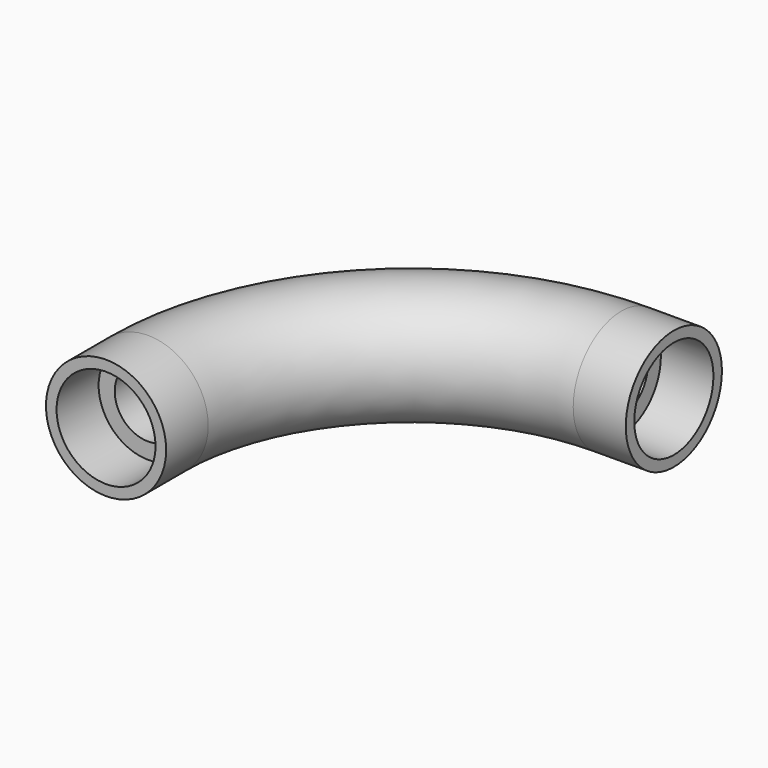
from build123d import *

# Parameters (mm, degrees)
F1_R     = 5.715
F1_R_2   = 3.175
F3_R     = 5.715
F3_R_2   = 4.70576
F4_DEPTH = 5
F5_R     = 5.715
F5_R_2   = 4.70576
F6_DEPTH = 5


with BuildPart() as f2:
    # F2: sweep along a path in F0
    with BuildLine(Plane.XY) as f2_path:
        ThreePointArc((-25, 0), (-17.6776695297, 17.6776695297), (0, 25))
    # F1 (on Front) → F2 (sweep)
    with BuildSketch(Plane.XZ):
        with Locations((-25, 0)):
            Circle(F1_R)
        with Locations((-25, 0)):
            Circle(F1_R_2, mode=Mode.SUBTRACT)
    sweep(path=f2_path.line)

    # F3 (on face) → F4 (join)
    with BuildSketch(Plane.XZ):
        with Locations((-25, 0)):
            Circle(F3_R)
        with Locations((-25, 0)):
            Circle(F3_R_2, mode=Mode.SUBTRACT)
    extrude(amount=F4_DEPTH)

    # F5 (on face) → F6 (join)
    with BuildSketch(Plane.YZ):
        with Locations((25, 0)):
            Circle(F5_R)
        with Locations((25, 0)):
            Circle(F5_R_2, mode=Mode.SUBTRACT)
    extrude(amount=F6_DEPTH)


solid = f2.part
